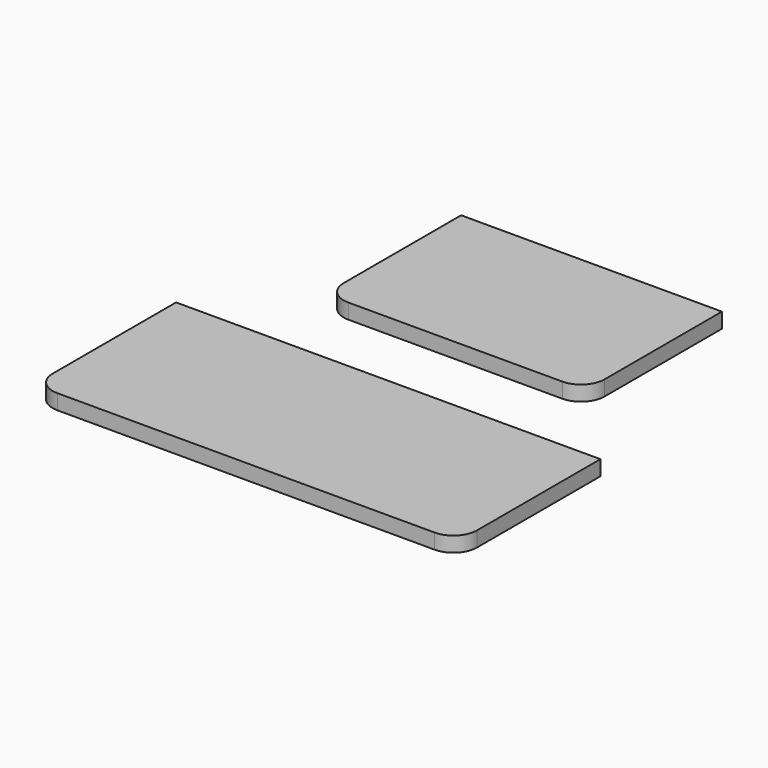
from build123d import *

# Parameters (mm, degrees)
F0_W     = 25.3
F0_H     = 10.6
F0_W_2   = 15.55
F0_H_2   = 10.15
F1_DEPTH = 0.9
F2_R     = 1.4


with BuildPart() as f1:
    # F0 (on Top) → F1 (new body)
    with BuildSketch(Plane.XY):
        Rectangle(F0_W, F0_H)
        with Locations((0, 15.375)):
            Rectangle(F0_W_2, F0_H_2)
    extrude(amount=F1_DEPTH)

    # F2
    f2_edges = [f1.edges().sort_by_distance(p)[0] for p in [
        (-12.65, -5.3, 0.45),
        (12.65, -5.3, 0.45),
        (7.775, 10.3, 0.45),
        (-7.775, 10.3, 0.45),
    ]]
    fillet(f2_edges, radius=F2_R)


solid = f1.part
